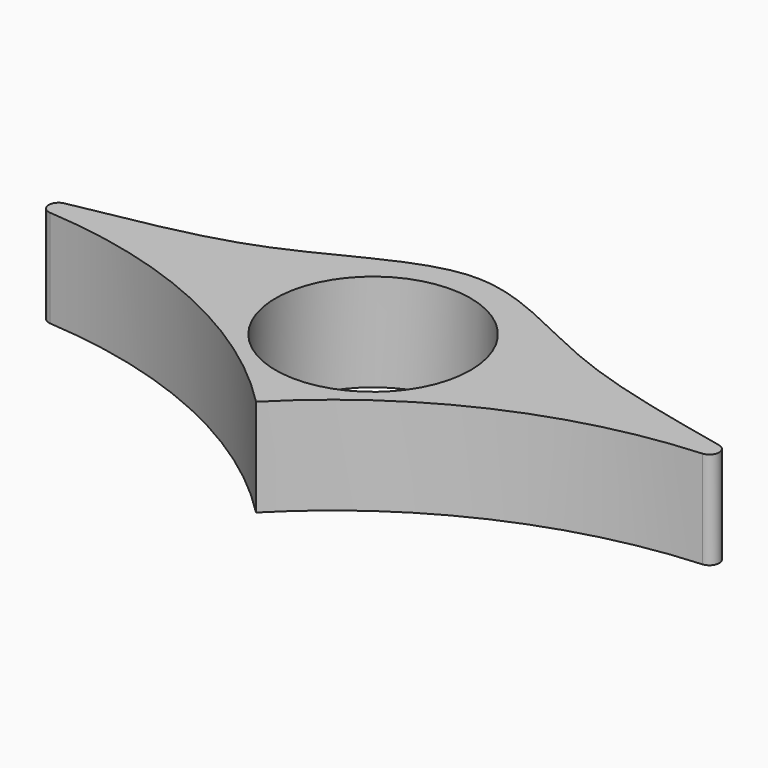
from build123d import *

# Parameters (mm, degrees)
F0_R     = 25.4
F1_DEPTH = 25.4
F2_R     = 2.54


with BuildPart() as f1:
    # F0 (on Top) → F1 (new body)
    with BuildSketch(Plane.XY):
        with BuildLine():
            ThreePointArc((-109.9285576866, 0), (-50.5023265134, -6.1944521857), (0, -38.121920079))
            ThreePointArc((0, -38.121920079), (50.5023265134, -6.1944521857), (109.9285576866, 0))
            add(Edge.make_bspline(
                [(-109.9285576866, 0), (-85.612103343, 7.0952940732), (-43.2886684826, 9.3286991497), (-0.039278438, 42.1583549524), (42.0046987843, 12.4005450465), (86.0498473048, 6.4366110601), (109.9285576866, 0)],
                knots=[0, 0, 0, 0, 0.2758030347, 0.5005880284, 0.7210807614, 1, 1, 1, 1], degree=3))
        make_face()
        Circle(F0_R, mode=Mode.SUBTRACT)
    extrude(amount=F1_DEPTH)

    # F2
    f2_edges = [f1.edges().sort_by_distance(p)[0] for p in [
        (-109.928558, 0, 12.7),
        (109.928558, 0, 12.7),
    ]]
    fillet(f2_edges, radius=F2_R)


solid = f1.part
